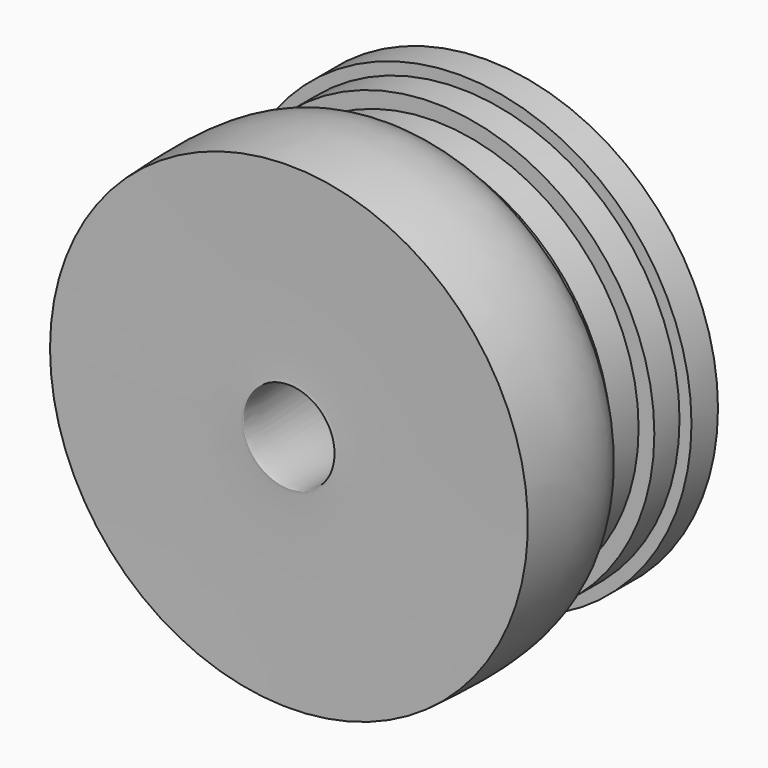
from build123d import *


with BuildPart() as f1:
    # F0 (on Top) → F1 (revolve)
    with BuildSketch(Plane.XY):
        Polygon((46.9783507288, 47.9570627213), (-37.1911935508, 47.9570627213), (-37.1911935508, 33.0316498876), (-31.808257103, 33.0316498876), (41.840095073, 33.0316498876), (46.9783507288, 33.0316498876), align=None)
        with BuildLine():
            Line((26.914678514, 3.4255045466), (-17.3722021282, 3.4255045466))
            add(Edge.make_bspline(
                [(-17.3722021282, 3.4255045466), (-24.6032634919, 0.5350989453), (-42.97008984, -6.8065034953), (-41.3526611202, -41.8689055569), (-40.372017771, -63.1271600723)],
                knots=[0, 0, 0, 0, 0.3937022775, 1, 1, 1, 1], degree=3))
            add(Edge.make_bspline(
                [(26.914678514, 3.4255045466), (31.6067703889, 2.1012831856), (44.8582918282, -1.6386153976), (47.4232161342, -64.0710102025), (45.7399405329, -62.1356415294), (1.5709073955, -62.6442168335), (-40.372017771, -63.1271600723)],
                knots=[0, 0, 0, 0, 0.1916852787, 0.5413622852, 0.5644775087, 1, 1, 1, 1], degree=3))
        make_face()
        Polygon((41.840095073, 33.0316498876), (-31.808257103, 33.0316498876), (-31.808257103, 18.8402757049), (-24.7125700116, 18.8402757049), (35.2337621152, 18.8402757049), (41.840095073, 18.8402757049), align=None)
        Polygon((35.2337621152, 18.8402757049), (-24.7125700116, 18.8402757049), (-24.7125700116, 3.4255045466), (-17.3722021282, 3.4255045466), (26.914678514, 3.4255045466), (35.2337621152, 3.4255045466), align=None)
    revolve(axis=Axis((67.2867000103, -2.9361471534, 0), (0, -1, 0)))


solid = f1.part
